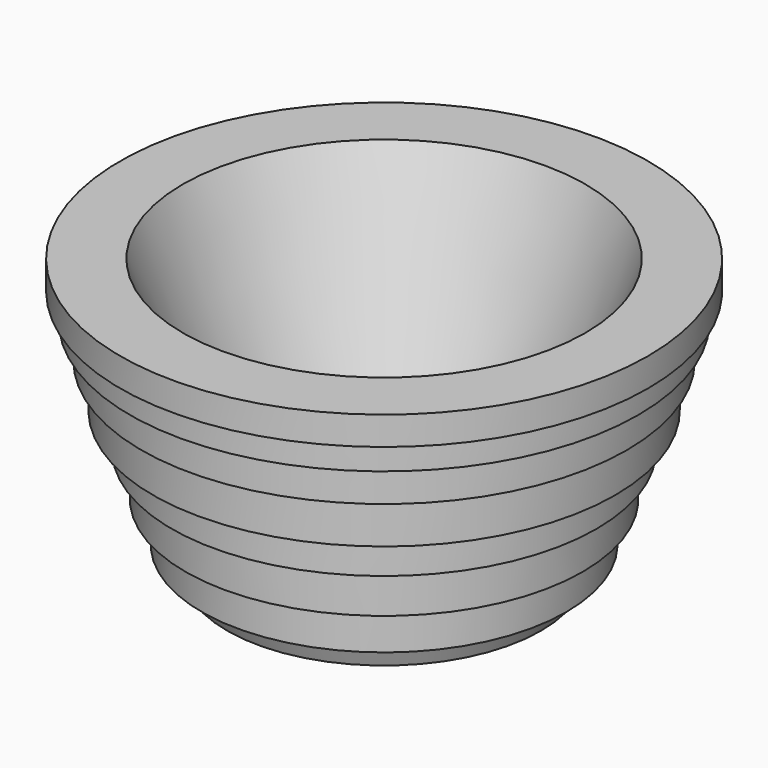
from build123d import *


with BuildPart() as f1:
    # F0 (on Front) → F1 (revolve)
    with BuildSketch(Plane.XZ):
        Polygon((-29.822183, -23.230489), (-55.222183, -23.230489), (-55.222183, -35.930488), (-21.117112, -35.930488), (-19.040657, -30.561369), (-15.62502, -21.72951), (-12.072363, -12.543354), (-9.076869, -4.797863), (-5.045252, 5.626746), (-2.506006, 12.19251), (2.118304, 24.149653), (-11.49837, 24.149653), align=None)
        Polygon((2.118304, 17.961016), (2.118304, 24.149653), (-2.506006, 12.19251), (0, 12.19251), (0, 17.961016), align=None)
        Polygon((-15.62502, -21.72951), (-19.040657, -30.561369), (-15.62502, -30.561369), align=None)
        Polygon((-2.506006, 4.644717), (-2.506006, 12.19251), (-5.045252, 5.626746), align=None)
        Polygon((-12.072363, -12.543354), (-15.62502, -21.72951), (-12.072363, -21.72951), align=None)
        Polygon((-5.045252, -4.797863), (-5.045252, 5.626746), (-9.076869, -4.797863), align=None)
        Polygon((-9.076869, -4.797863), (-12.072363, -12.543354), (-9.076869, -12.543354), align=None)
    revolve(axis=Axis((-55.222183, 0, -5.890418), (0, 0, 1)))


solid = f1.part
